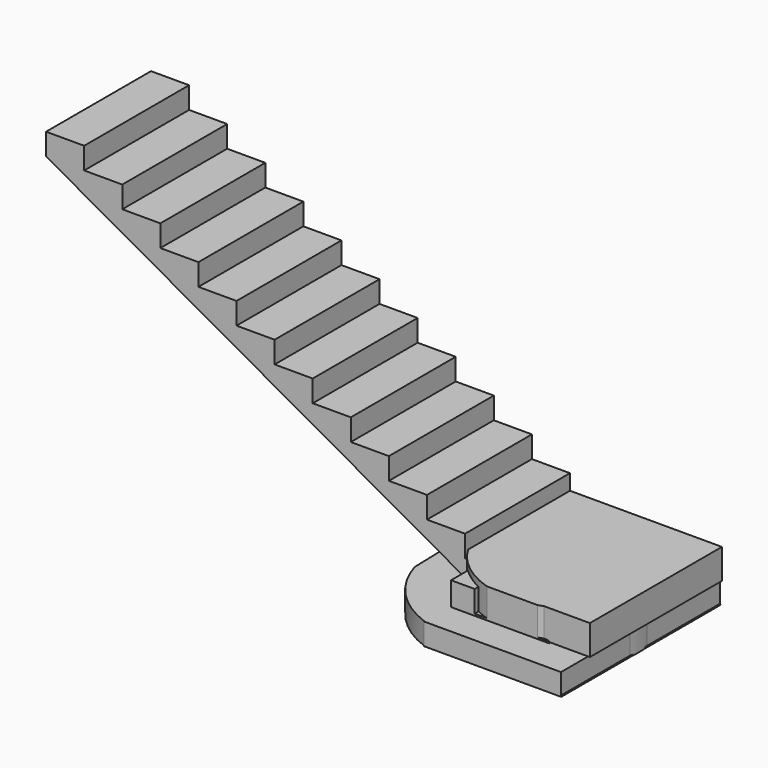
from build123d import *

# Parameters (mm, degrees)
F1_DEPTH  = 3810
F2_R      = 5.08
F4_W      = 4046.5870756649
F4_H      = 2585.72
F5_DEPTH  = 3454.4
F7_DEPTH  = 4292.6
F9_DEPTH  = 5537.2
F11_DEPTH = 203.2
F12_W     = 1461.0528945923
F12_H     = 2088.3071422577
F13_DEPTH = 1066.8
F15_DEPTH = 279.4
F16_W     = 422.590970993
F16_H     = 310.923916626
F17_DEPTH = 3728.72


with BuildPart() as f1:
    # F0 (on Front) → F1 (new body)
    with BuildSketch(Plane.XZ):
        Polygon((0, 2921), (0, 0), (5334, 0), align=None)
    extrude(amount=F1_DEPTH)

    # F2
    f2_edges = [f1.edges().sort_by_distance(p)[0] for p in [
        (5334, -1905, 0),
        (0, -1905, 2921),
        (2667, 0, 1460.5),
        (2667, -3810, 1460.5),
    ]]
    fillet(f2_edges, radius=F2_R)

    # F4 (on face) → F5 (cut)
    with BuildSketch(Plane(origin=(0, 0, 0), x_dir=(1, 0, 0), z_dir=(0, 0, -1))):
        with Locations((2023.2935378325, 2517.14)):
            Rectangle(F4_W, F4_H)
    extrude(amount=-F5_DEPTH, mode=Mode.SUBTRACT)

    # F6 (on face) → F7 (cut)
    with BuildSketch(Plane.XZ.offset(3810)):
        Polygon((5320.9031862571, 17.6625038147), (5320.9031862571, 166.5061565368), (5316.5761081827, 20.0202453923), align=None)
        Polygon((5320.9031862571, 17.6625038147), (5316.5761081827, 20.0202453923), (5316.5064623594, 17.6625038147), align=None)
        Polygon((0.5696018103, 2659.2625038147), (355.6, 2659.2625038147), (355.6, 2456.0625038147), (711.2, 2456.0625038147), (711.2, 2252.8625038147), (1066.8, 2252.8625038147), (1066.8, 2049.6625038147), (1422.4, 2049.6625038147), (1422.4, 1846.4625038147), (1778, 1846.4625038147), (1778, 1643.2625038147), (2133.6, 1643.2625038147), (2133.6, 1440.0625038147), (2489.2, 1440.0625038147), (2489.2, 1236.8625038147), (2844.8, 1236.8625038147), (2844.8, 1033.6625038147), (2853.4424130303, 1033.6625038147), (2855.7144169309, 1351.3645521511), (0.6243509594, 2914.8662549451), align=None)
        Polygon((3665.5870756649, 907.8628580825), (2855.7144169309, 1351.3645521511), (2853.4424130303, 1033.6625038147), (3200.4, 1033.6625038147), (3200.4, 830.4625038147), (3556, 830.4625038147), (3556, 627.2625038147), (3665.5870756649, 627.2625038147), align=None)
        Polygon((2856.9627382478, 1525.9215761281), (2855.7144169309, 1351.3645521511), (3665.5870756649, 907.8628580825), (3665.5870756649, 627.2625038147), (3911.6, 627.2625038147), (3911.6, 424.0625038147), (4267.2, 424.0625038147), (4267.2, 220.8625038147), (4622.8, 220.8625038147), (4958.1376933021, 215.3264403), (5316.5761081827, 20.0202453923), (5320.9031862571, 166.5061565368), align=None)
        Polygon((0, 2659.2625038147), (0.5696018103, 2659.2625038147), (0.6243509594, 2914.8662549451), (2855.7144169309, 1351.3645521511), (2856.9627382478, 1525.9215761281), (0, 3038.5632514954), (-325.4196941853, 3048.7372875214), (-325.4196941853, 166.5061565368), (-325.4196941853, -137.8409564495), (5320.9031862571, -137.8409564495), (5320.9031862571, 17.6625038147), (5316.5064623594, 17.6625038147), (5315.9847259521, 0), (3665.5870756649, 0), (2846.1766242981, 0), (0, 0), (0, 2456.0625038147), align=None)
    extrude(amount=-F7_DEPTH, mode=Mode.SUBTRACT)

    # F8 (on face) → F9 (cut)
    with BuildSketch(Plane(origin=(0, 0, 0), x_dir=(-1, 0, 0), z_dir=(0, 1, 0))):
        Polygon((-4386.6400718689, 0), (0, 0), (0, 2456.0625038147), align=None)
    extrude(amount=-F9_DEPTH, mode=Mode.SUBTRACT)

    # F10 (on Top) → F11 (join)
    with BuildSketch(Plane.XY):
        with BuildLine():
            Line((5313.4641647339, -855.0057024642), (5313.4641647339, 0))
            Line((5313.4641647339, 0), (4458.4584622696, 0))
            Line((4458.4584622696, 0), (4263.4698671981, 0))
            Line((4263.4698671981, 0), (3408.4641647339, 0))
            Line((3408.4641647339, 0), (3443.7904647341, -1227.3705005646))
            Line((3443.7904647341, -1227.3705005646), (4034.4052314758, -1227.3705005646))
            Line((4034.4052314758, -1227.3705005646), (4034.4052314758, -1852.5670259271))
            ThreePointArc((4034.4052314758, -1852.5670259271), (4147.3229003929, -1885.8374514198), (4263.4698671981, -1905))
            Line((4263.4698671981, -1905), (4458.4584622696, -1905))
            Line((4458.4584622696, -1905), (5313.4641647339, -1905))
            Line((5313.4641647339, -1905), (5313.4641647339, -1049.9942975358))
            Line((5313.4641647339, -1049.9942975358), (5313.4641647339, -855.0057024642))
        make_face()
        with BuildLine():
            Line((4263.4698671981, 0), (4458.4584622696, 0))
            ThreePointArc((4458.4584622696, 0), (4360.9641647339, 4.9765731087), (4263.4698671981, 0))
        make_face()
        with BuildLine():
            ThreePointArc((5313.4641647339, -1049.9942975358), (5318.4407378426, -952.5), (5313.4641647339, -855.0057024642))
            Line((5313.4641647339, -855.0057024642), (5313.4641647339, -1049.9942975358))
        make_face()
        with BuildLine():
            Line((4034.4052314758, -1227.3705005646), (3443.7904647341, -1227.3705005646))
            ThreePointArc((3443.7904647341, -1227.3705005646), (3664.9502355708, -1610.0150176711), (4034.4052314758, -1852.5670259271))
            Line((4034.4052314758, -1852.5670259271), (4034.4052314758, -1227.3705005646))
        make_face()
        with BuildLine():
            ThreePointArc((4263.4698671981, -1905), (4360.9641647339, -1909.9765731087), (4458.4584622696, -1905))
            Line((4458.4584622696, -1905), (4263.4698671981, -1905))
        make_face()
        with BuildLine():
            ThreePointArc((4263.4698671981, -1905), (4147.3229003929, -1885.8374514198), (4034.4052314758, -1852.5670259271))
            Line((4034.4052314758, -1852.5670259271), (4034.4052314758, -1905))
            Line((4034.4052314758, -1905), (4263.4698671981, -1905))
        make_face()
    extrude(amount=F11_DEPTH)

    # F12 (on Top) → F13 (cut)
    with BuildSketch(Plane.XY):
        with Locations((4715.0173187256, -2901.6946554184)):
            Rectangle(F12_W, F12_H)
    extrude(amount=F13_DEPTH, mode=Mode.SUBTRACT)

    # F14 (on face) → F15 (join)
    with BuildSketch(Plane.XY.offset(203.2)):
        with BuildLine():
            Line((5330.0757408142, -362.0066313751), (5330.0757408142, 0))
            Line((5330.0757408142, 0), (4901.3042104477, 0))
            ThreePointArc((4901.3042104477, 0), (5147.5837671775, -143.2273507594), (5330.0757408142, -362.0066313751))
        make_face()
        with BuildLine():
            Line((3905.9698581696, -1178.9039107697), (3905.9698581696, -362.0066313751))
            ThreePointArc((3905.9698581696, -362.0066313751), (3797.1393226717, -770.4552710724), (3905.9698581696, -1178.9039107697))
        make_face()
        with BuildLine():
            ThreePointArc((4023.7155692476, -204.1968507414), (4167.5069348944, -84.2445612592), (4334.7413885361, 0))
            Line((4334.7413885361, 0), (4023.7155692476, 0))
            Line((4023.7155692476, 0), (4023.7155692476, -204.1968507414))
        make_face()
        with BuildLine():
            Line((4023.7155692476, -204.1968507414), (4023.7155692476, 0))
            Line((4023.7155692476, 0), (3905.9698581696, 0))
            Line((3905.9698581696, 0), (3905.9698581696, -362.0066313751))
            ThreePointArc((3905.9698581696, -362.0066313751), (3960.0940752521, -279.558666545), (4023.7155692476, -204.1968507414))
        make_face()
        with BuildLine():
            ThreePointArc((5330.0757408142, -362.0066313751), (5147.5837671775, -143.2273507594), (4901.3042104477, 0))
            Line((4901.3042104477, 0), (4334.7413885361, 0))
            ThreePointArc((4334.7413885361, 0), (4167.5069348944, -84.2445612592), (4023.7155692476, -204.1968507414))
            Line((4023.7155692476, -204.1968507414), (4023.7155692476, -1224.28))
            Line((4023.7155692476, -1224.28), (4046.5870756649, -1224.28))
            Line((4046.5870756649, -1224.28), (4046.5870756649, -1359.7861594964))
            ThreePointArc((4046.5870756649, -1359.7861594964), (4447.847191651, -1573.5056711173), (4901.3042104477, -1540.9105421448))
            Line((4901.3042104477, -1540.9105421448), (5330.0757408142, -1540.9105421448))
            Line((5330.0757408142, -1540.9105421448), (5330.0757408142, -362.0066313751))
        make_face()
        with BuildLine():
            Line((4023.7155692476, -1224.28), (4023.7155692476, -204.1968507414))
            ThreePointArc((4023.7155692476, -204.1968507414), (3960.0940752521, -279.558666545), (3905.9698581696, -362.0066313751))
            Line((3905.9698581696, -362.0066313751), (3905.9698581696, -1178.9039107697))
            ThreePointArc((3905.9698581696, -1178.9039107697), (3969.9368596908, -1274.2749780595), (4046.5870756649, -1359.7861594964))
            Line((4046.5870756649, -1359.7861594964), (4046.5870756649, -1224.28))
            Line((4046.5870756649, -1224.28), (4023.7155692476, -1224.28))
        make_face()
    extrude(amount=F15_DEPTH)

    # F16 (on face) → F17 (cut)
    with BuildSketch(Plane.YZ.offset(5330.0757408142)):
        with Locations((-1768.4555053711, 358.661958313)):
            Rectangle(F16_W, F16_H)
    extrude(amount=-F17_DEPTH, mode=Mode.SUBTRACT)


solid = f1.part
